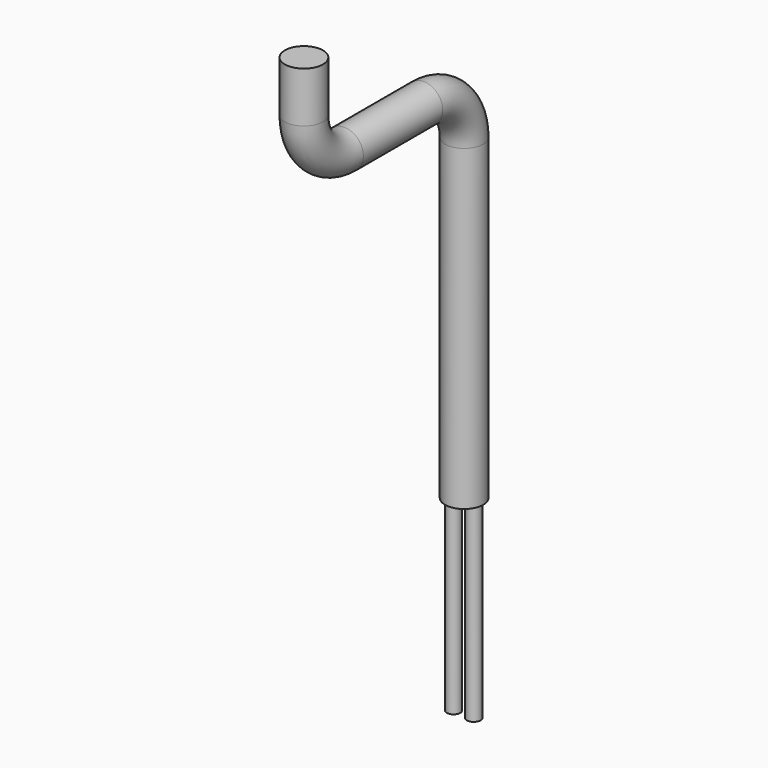
from build123d import *

# Parameters (mm, degrees)
F1_R     = 2.5
F3_DEPTH = 35
F4_R     = 0.882114
F4_R_2   = 0.903169
F5_DEPTH = 25


with BuildPart() as f2:
    # F2: sweep along a path in F0
    with BuildLine(Plane.YZ) as f2_path:
        Line((0, 0), (0, 6.632662))
        ThreePointArc((0, 6.632662), (-1.942662, 11.322663), (-6.632662, 13.265325))
        Line((-6.632662, 13.265325), (-19.632662, 13.265325))
        ThreePointArc((-19.632662, 13.265325), (-24.322663, 15.207986), (-26.265325, 19.897987))
        Line((-26.265325, 19.897987), (-26.265325, 26.530649))
    # F1 (on Top) → F2 (sweep)
    with BuildSketch(Plane.XY):
        Circle(F1_R)
    sweep(path=f2_path.line)

    # F1 (on Top) → F3 (join)
    with BuildSketch(Plane.XY):
        Circle(F1_R)
    extrude(amount=-F3_DEPTH)

    # F4 (on face) → F5 (join)
    with BuildSketch(Plane(origin=(0, 0, -35), x_dir=(1, 0, 0), z_dir=(0, 0, -1))):
        with Locations((-1.37841, 0)):
            Circle(F4_R)
        with Locations((1.253585, 0)):
            Circle(F4_R_2)
    extrude(amount=F5_DEPTH)


solid = f2.part
